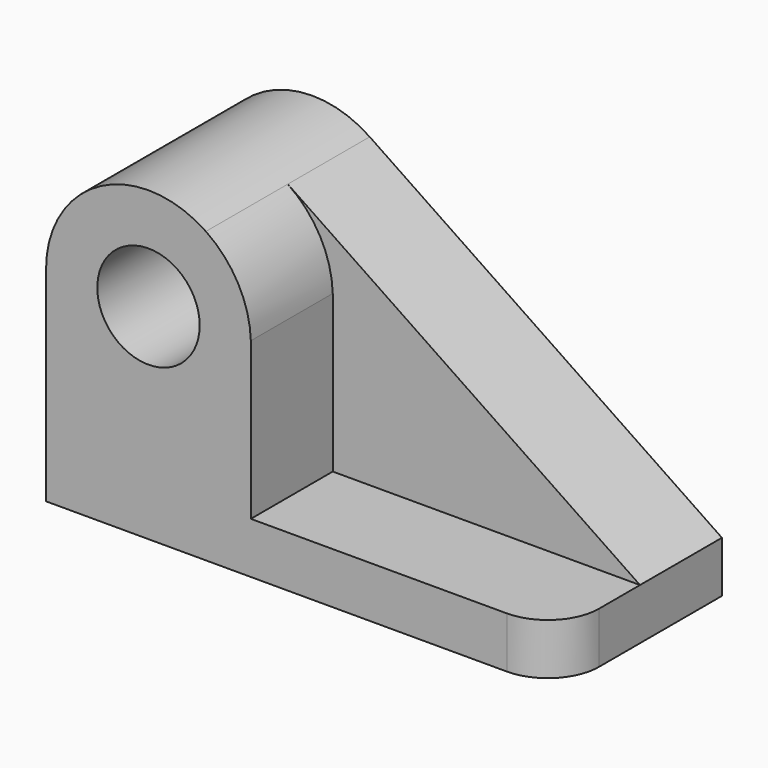
from build123d import *

# Parameters (mm, degrees)
F0_R     = 12.7
F1_DEPTH = 25.4
F2_R     = 12.7
F3_DEPTH = 25.4
F4_R     = 12.7


with BuildPart() as f1:
    # F0 (on Front) → F1 (new body)
    with BuildSketch(Plane.XZ):
        with BuildLine():
            Line((59.5375982285, 0), (-27.8245286434, 59.1343283417))
            ThreePointArc((-27.8245286434, 59.1343283417), (-53.9686611032, 60.5365993129), (-67.4624017715, 38.1))
            Line((-67.4624017715, 38.1), (-67.4624017715, -12.7))
            Line((-67.4624017715, -12.7), (59.5375982285, -12.7))
            Line((59.5375982285, -12.7), (59.5375982285, 0))
        make_face()
        with Locations((-42.0624017715, 38.1)):
            Circle(F0_R, mode=Mode.SUBTRACT)
    extrude(amount=F1_DEPTH)

    # F2 (on face) → F3 (join)
    with BuildSketch(Plane.XZ.offset(25.4)):
        with BuildLine():
            Line((-16.6746217208, 0), (-16.6746217208, 37.3122030112))
            Line((-16.6746217208, 37.3122030112), (-16.6746217208, 38.8877969888))
            ThreePointArc((-16.6746217208, 38.8877969888), (-19.8131634606, 50.352811701), (-27.8245286434, 59.1343283417))
            ThreePointArc((-27.8245286434, 59.1343283417), (-53.9686611032, 60.5365993129), (-67.4624017715, 38.1))
            Line((-67.4624017715, 38.1), (-67.4624017715, 0))
            Line((-67.4624017715, 0), (-67.4624017715, -12.7))
            Line((-67.4624017715, -12.7), (59.5375982285, -12.7))
            Line((59.5375982285, -12.7), (59.5375982285, 0))
            Line((59.5375982285, 0), (-16.6746217208, 0))
        make_face()
        with Locations((-42.0624017715, 38.1)):
            Circle(F2_R, mode=Mode.SUBTRACT)
    extrude(amount=F3_DEPTH)

    # F4
    f4_edges = [f1.edges().sort_by_distance(p)[0] for p in [
        (59.537598, -50.8, -6.35),
    ]]
    fillet(f4_edges, radius=F4_R)


solid = f1.part
